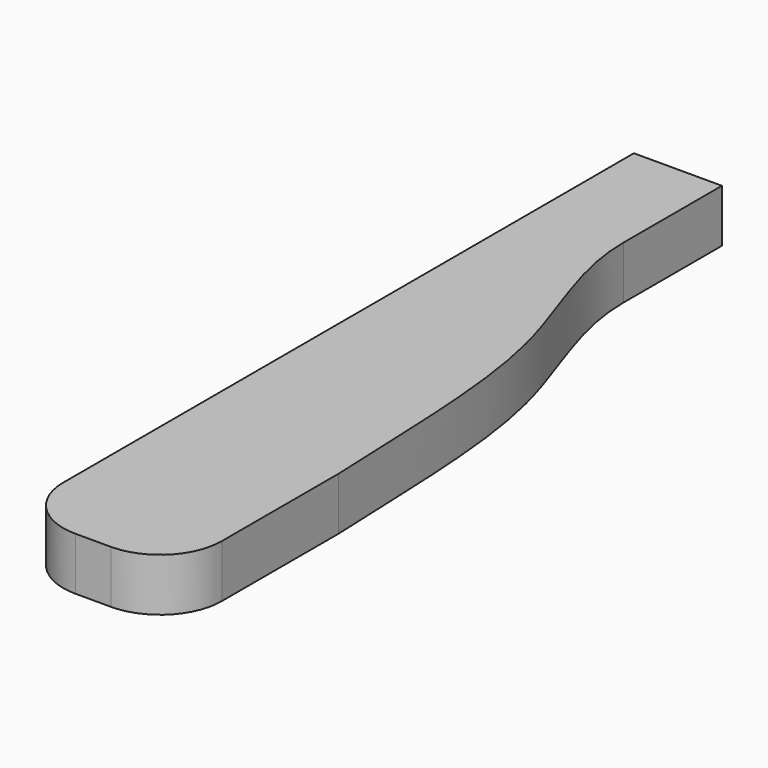
from build123d import *

# Parameters (mm, degrees)
F1_DEPTH = 38.1


with BuildPart() as f1:
    # F0 (on Top) → F1 (new body)
    with BuildSketch(Plane.XY):
        with BuildLine():
            ThreePointArc((0, -514.35), (13.0191035763, -545.7808964237), (44.45, -558.8))
            Line((44.45, -558.8), (69.85, -558.8))
            ThreePointArc((69.85, -558.8), (101.2808964237, -545.7808964237), (114.3, -514.35))
            Line((114.3, -514.35), (114.3, -408.9121172022))
            add(Edge.make_bspline(
                [(63.5, -88.9), (63.5, -132.1000424328), (112.2186114332, -219.2176302116), (110.8736880618, -342.5600233226), (114.3, -408.9121172022)],
                knots=[0, 0, 0, 0, 0.4569093715, 1, 1, 1, 1], degree=3))
            Line((63.5, -88.9), (63.5, 0))
            Line((63.5, 0), (0, 0))
            Line((0, 0), (0, -514.35))
        make_face()
    extrude(amount=F1_DEPTH)


solid = f1.part
